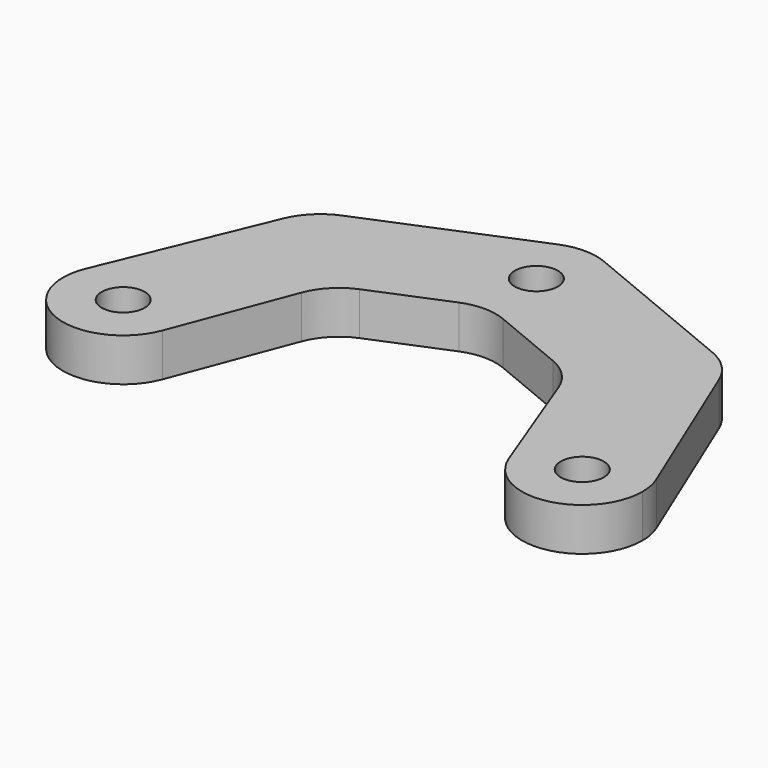
from build123d import *

# Parameters (mm, degrees)
F0_R     = 4.7625
F1_DEPTH = 9.525
F2_R     = 12.7635


with BuildPart() as f1:
    # F0 (on Top) → F1 (new body)
    with BuildSketch(Plane.XY):
        with BuildLine():
            ThreePointArc((-38.331487, -4.728468), (-37.68341, -2.403602), (-37.465, 0))
            ThreePointArc((-37.465, 0), (-48.198471, 13.078772), (-63.119934, 5.103084))
            ThreePointArc((-63.119934, 5.103084), (-55.716337, -12.395638), (-38.331487, -4.728468))
        make_face()
        with Locations((-50.8, 0)):
            Circle(F0_R, mode=Mode.SUBTRACT)
        with BuildLine():
            ThreePointArc((-63.119934, 5.103084), (-48.198471, 13.078772), (-37.465, 0))
            ThreePointArc((-37.465, 0), (-37.68341, -2.403602), (-38.331487, -4.728468))
            Line((-38.331487, -4.728468), (-26.491756, 26.491756))
            ThreePointArc((-26.491756, 26.491756), (-43.329554, 24.833377), (-48.240958, 41.024108))
            Line((-48.240958, 41.024108), (-63.119934, 5.103084))
        make_face()
        with BuildLine():
            ThreePointArc((-41.024108, 48.240958), (-45.350293, 45.350293), (-48.240958, 41.024108))
            ThreePointArc((-48.240958, 41.024108), (-43.329554, 24.833377), (-26.491756, 26.491756))
            ThreePointArc((-26.491756, 26.491756), (-23.601091, 30.817941), (-22.586024, 35.921024))
            ThreePointArc((-22.586024, 35.921024), (-28.512495, 47.008672), (-41.024108, 48.240958))
        make_face()
        with BuildLine():
            ThreePointArc((-22.586024, 35.921024), (-23.601091, 30.817941), (-26.491756, 26.491756))
            Line((-26.491756, 26.491756), (0, 37.465))
            ThreePointArc((0, 37.465), (-13.078772, 48.198471), (-5.103084, 63.119934))
            Line((-5.103084, 63.119934), (-41.024108, 48.240958))
            ThreePointArc((-41.024108, 48.240958), (-28.512495, 47.008672), (-22.586024, 35.921024))
        make_face()
        with BuildLine():
            ThreePointArc((-5.103084, 63.119934), (-13.078772, 48.198471), (0, 37.465))
            ThreePointArc((0, 37.465), (9.429269, 41.370731), (13.335, 50.8))
            ThreePointArc((13.335, 50.8), (11.087647, 58.208529), (5.103084, 63.119934))
            ThreePointArc((5.103084, 63.119934), (0, 64.135), (-5.103084, 63.119934))
        make_face()
        with Locations((0, 50.8)):
            Circle(F0_R, mode=Mode.SUBTRACT)
        with BuildLine():
            ThreePointArc((13.335, 50.8), (9.429269, 41.370731), (0, 37.465))
            Line((0, 37.465), (26.491756, 26.491756))
            ThreePointArc((26.491756, 26.491756), (24.833377, 43.329554), (41.024108, 48.240958))
            Line((41.024108, 48.240958), (5.103084, 63.119934))
            ThreePointArc((5.103084, 63.119934), (11.087647, 58.208529), (13.335, 50.8))
        make_face()
        with BuildLine():
            ThreePointArc((41.024108, 48.240958), (24.833377, 43.329554), (26.491756, 26.491756))
            ThreePointArc((26.491756, 26.491756), (41.024108, 23.601091), (49.256024, 35.921024))
            ThreePointArc((49.256024, 35.921024), (48.999796, 38.522554), (48.240958, 41.024108))
            ThreePointArc((48.240958, 41.024108), (45.350293, 45.350293), (41.024108, 48.240958))
        make_face()
        with BuildLine():
            ThreePointArc((49.256024, 35.921024), (41.024108, 23.601091), (26.491756, 26.491756))
            Line((26.491756, 26.491756), (38.331487, -4.728468))
            ThreePointArc((38.331487, -4.728468), (45.883663, 12.395638), (63.119934, 5.103084))
            Line((63.119934, 5.103084), (48.240958, 41.024108))
            ThreePointArc((48.240958, 41.024108), (48.999796, 38.522554), (49.256024, 35.921024))
        make_face()
        with BuildLine():
            ThreePointArc((63.119934, 5.103084), (45.883663, 12.395638), (38.331487, -4.728468))
            ThreePointArc((38.331487, -4.728468), (53.203602, -13.11659), (64.135, 0))
            ThreePointArc((64.135, 0), (63.878772, 2.601529), (63.119934, 5.103084))
        make_face()
        with Locations((50.8, 0)):
            Circle(F0_R, mode=Mode.SUBTRACT)
    extrude(amount=F1_DEPTH)

    # F2
    f2_edges = [f1.edges().sort_by_distance(p)[0] for p in [
        (-26.491756, 26.491756, 4.7625),
        (0, 37.465, 4.7625),
        (26.491756, 26.491756, 4.7625),
    ]]
    fillet(f2_edges, radius=F2_R)


solid = f1.part
